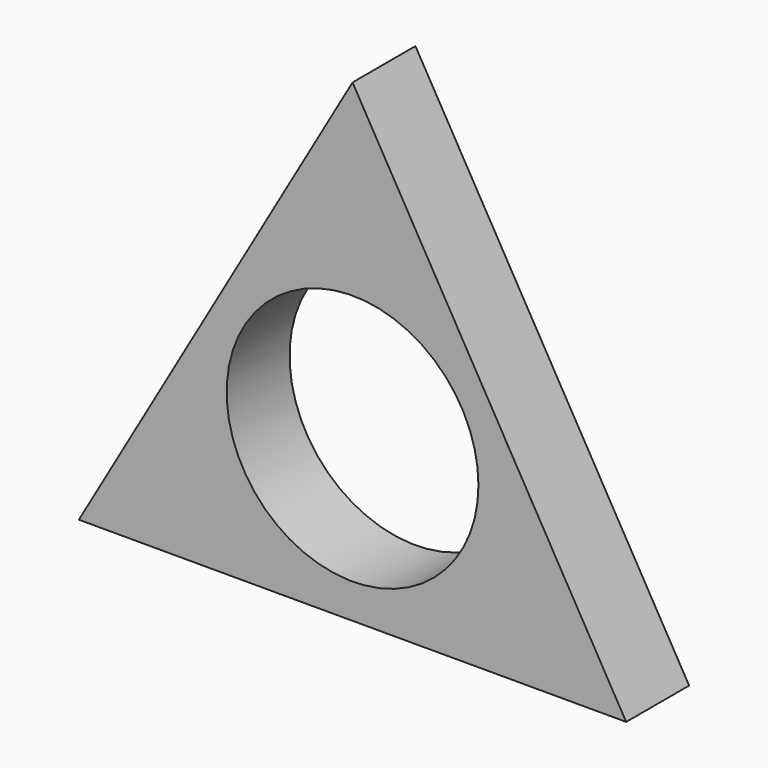
from build123d import *

# Parameters (mm, degrees)
F0_R     = 11.0998
F1_DEPTH = 6.9342


with BuildPart() as f1:
    # F0 (on Front) → F1 (new body)
    with BuildSketch(Plane.XZ):
        Polygon((24.13, -14.1478), (0, 27.646586), (-24.13, -14.1478), align=None)
        Circle(F0_R, mode=Mode.SUBTRACT)
    extrude(amount=F1_DEPTH)


solid = f1.part
